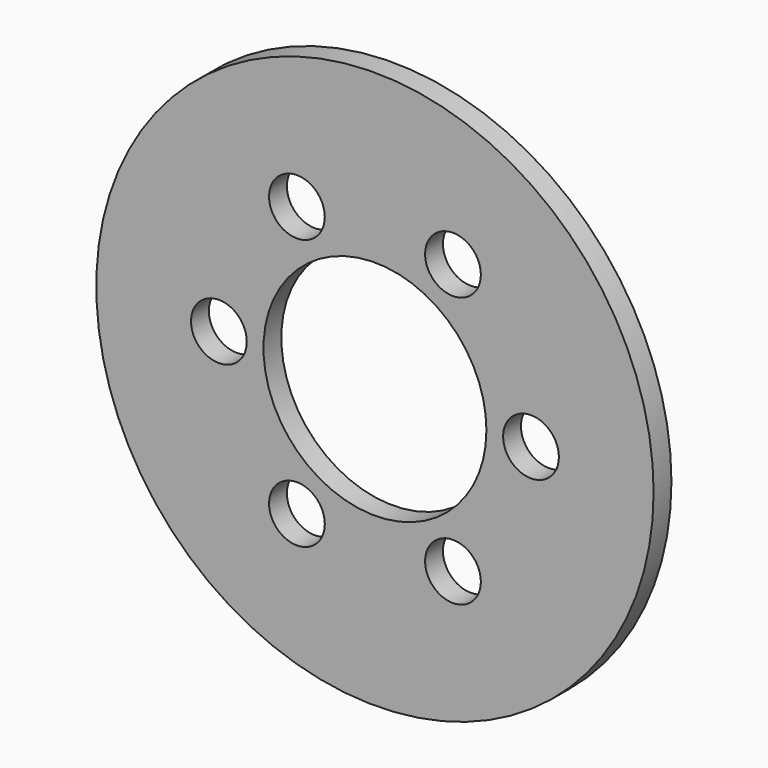
from build123d import *

# Parameters (mm, degrees)
F0_R     = 31.75
F0_R_2   = 3.175
F0_R_3   = 12.7
F1_DEPTH = 2.54


with BuildPart() as f1:
    # F0 (on Front) → F1 (new body)
    with BuildSketch(Plane.XZ):
        Circle(F0_R)
        with Locations((-8.89, -15.397932)):
            Circle(F0_R_2, mode=Mode.SUBTRACT)
        with Locations((8.89, -15.397932)):
            Circle(F0_R_2, mode=Mode.SUBTRACT)
        with Locations((-17.78, 0)):
            Circle(F0_R_2, mode=Mode.SUBTRACT)
        with Locations((-8.89, 15.397932)):
            Circle(F0_R_2, mode=Mode.SUBTRACT)
        Circle(F0_R_3, mode=Mode.SUBTRACT)
        with Locations((8.89, 15.397932)):
            Circle(F0_R_2, mode=Mode.SUBTRACT)
        with Locations((17.78, 0)):
            Circle(F0_R_2, mode=Mode.SUBTRACT)
    extrude(amount=F1_DEPTH)


solid = f1.part
